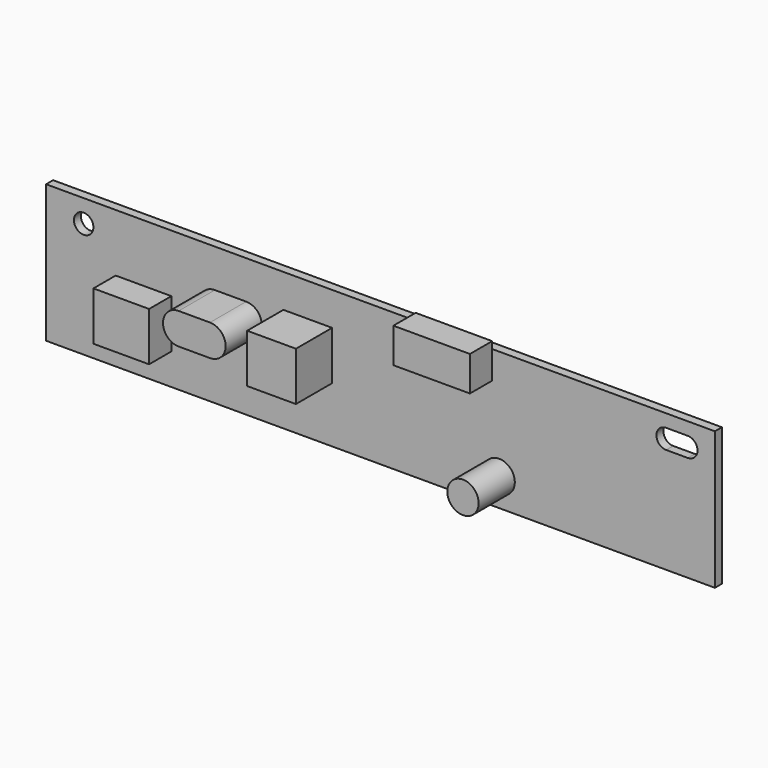
from build123d import *

# Parameters (mm, degrees)
F0_W     = 122.047
F0_H     = 25.146
F0_R     = 1.778
F1_DEPTH = 1.6002
F2_W     = 10.16
F2_H     = 8.89
F2_W_2   = 13.97
F2_H_2   = 6.35
F3_DEPTH = 5.08
F4_W     = 8.89
F4_H     = 8.89
F4_R     = 2.8575
F4_W_2   = 5.715
F4_H_2   = 5.715
F5_DEPTH = 8.255


with BuildPart() as f1:
    # F0 (on Front) → F1 (new body)
    with BuildSketch(Plane.XZ):
        with Locations((61.0235, 12.573)):
            Rectangle(F0_W, F0_H)
        with Locations((6.858, 21.0312)):
            Circle(F0_R, mode=Mode.SUBTRACT)
        with BuildLine():
            ThreePointArc((113.157, 19.2532), (111.379, 21.0312), (113.157, 22.8092))
            Line((113.157, 22.8092), (117.094, 22.8092))
            ThreePointArc((117.094, 22.8092), (118.872, 21.0312), (117.094, 19.2532))
            Line((117.094, 19.2532), (113.157, 19.2532))
        make_face(mode=Mode.SUBTRACT)
    extrude(amount=F1_DEPTH)

    # F2 (on face) → F3 (join)
    with BuildSketch(Plane.XZ.offset(1.6002)):
        with Locations((17.78, 10.16)):
            Rectangle(F2_W, F2_H)
        with Locations((74.422, 23.241)):
            Rectangle(F2_W_2, F2_H_2)
    extrude(amount=F3_DEPTH)

    # F4 (on face) → F5 (join)
    with BuildSketch(Plane.XZ.offset(1.6002)):
        with Locations((47.752, 14.605)):
            Rectangle(F4_W, F4_H)
        with Locations((82.677, 5.08)):
            Circle(F4_R)
        with Locations((33.655, 15.3035)):
            Rectangle(F4_W_2, F4_H_2)
        with BuildLine():
            Line((30.7975, 12.446), (30.7975, 18.161))
            ThreePointArc((30.7975, 18.161), (27.94, 15.3035), (30.7975, 12.446))
        make_face()
        with BuildLine():
            ThreePointArc((36.5125, 12.446), (39.37, 15.3035), (36.5125, 18.161))
            Line((36.5125, 18.161), (36.5125, 12.446))
        make_face()
    extrude(amount=F5_DEPTH)


solid = f1.part
